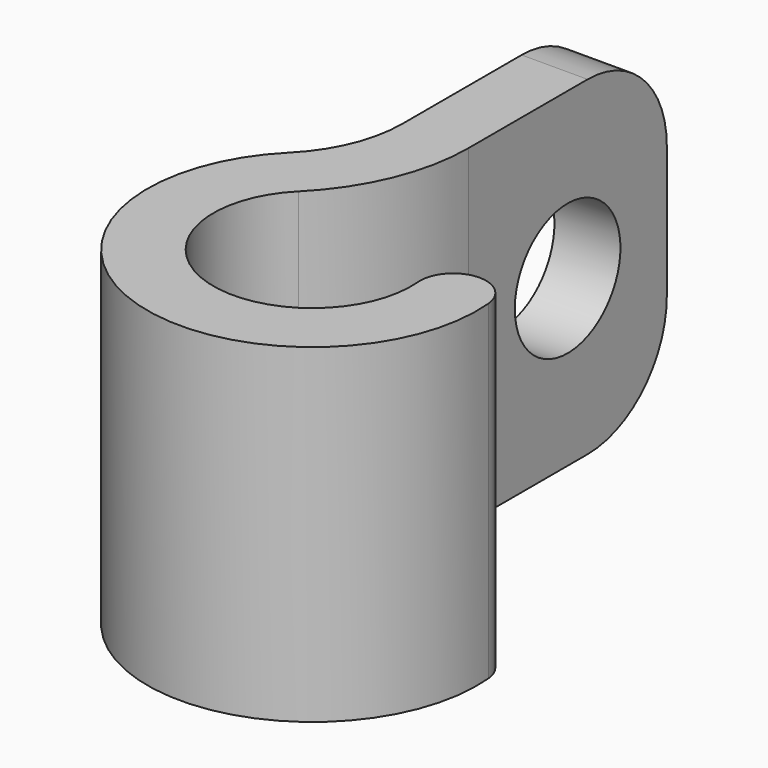
from build123d import *

# Parameters (mm, degrees)
F1_DEPTH = 10
F2_R     = 3
F4_D     = 4


with BuildPart() as f1:
    # F0 (on Top) → F1 (new body)
    with BuildSketch(Plane.XY):
        with BuildLine():
            ThreePointArc((3.352545125, -13.6172124282), (-0.6620993993, -16.6977575188), (-1.7573593129, -11.7573593129))
            ThreePointArc((-1.7573593129, -11.7573593129), (-0.4567228049, -9.81081922), (0, -7.5147186258))
            Line((0, -7.5147186258), (0, 0))
            Line((0, 0), (-2, 0))
            Line((-2, 0), (-2, -7.5147186258))
            ThreePointArc((-2, -7.5147186258), (-2.30448187, -9.0454523552), (-3.1715728753, -10.3431457505))
            ThreePointArc((-3.1715728753, -10.3431457505), (-1.3461396859, -18.5771427604), (5.3449345211, -13.4429009427))
            ThreePointArc((5.3449345211, -13.4429009427), (4.2615840803, -12.5338619874), (3.352545125, -13.6172124282))
        make_face()
    extrude(amount=F1_DEPTH)

    # F2
    f2_edges = [f1.edges().sort_by_distance(p)[0] for p in [
        (-1, 0, 10),
        (-1, 0, 0),
    ]]
    fillet(f2_edges, radius=F2_R)

    # F4 (through all)
    with Locations(Plane.YZ):
        with Locations((-3.7573593129, 5)):
            Hole(F4_D / 2)


solid = f1.part
